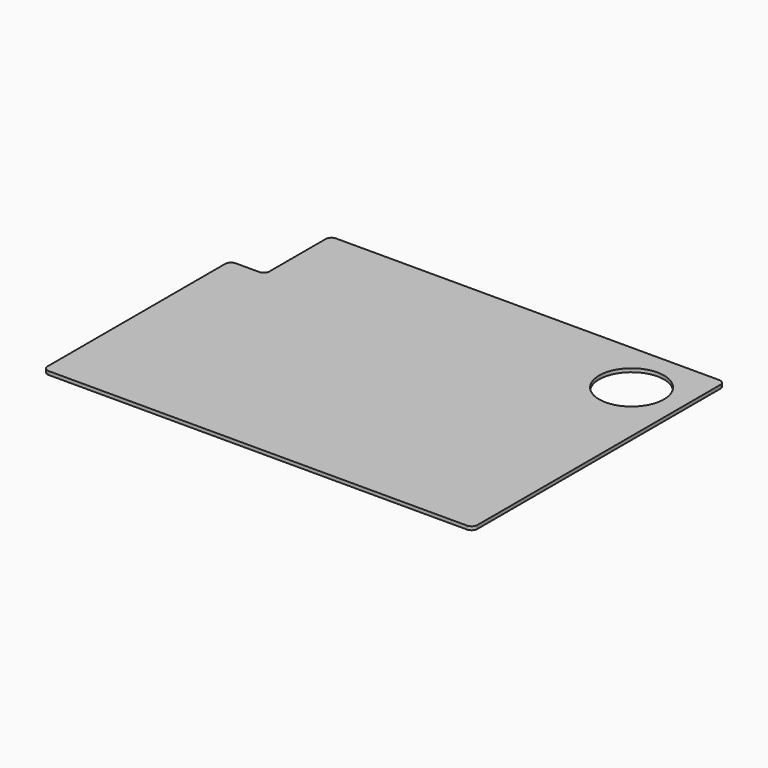
from build123d import *

# Parameters (mm, degrees)
PAD012_DEPTH             = 3
SKETCH090_R              = 27.75
POCKET039_DEPTH          = 0.001
POCKET039_DEPTH_BACK     = 3.001
POCKET040_DEPTH          = 0.001
POCKET040_DEPTH_BACK     = 3.001
BODY081_PLACEMENT_ANGLE  = 90
CLONE028_ROLL_ANGLE      = 180
CLONE028_PLACEMENT_ANGLE = -90


with BuildPart() as part:
    # Sketch089 → Pad012 (new body)
    with BuildSketch(Plane.XY):
        with BuildLine():
            ThreePointArc((-184, -130), (-182.535534, -133.535534), (-179, -135))
            Line((179, -135), (-179, -135))
            ThreePointArc((179, -135), (182.535534, -133.535534), (184, -130))
            Line((184, 130), (184, -130))
            ThreePointArc((184, 130), (182.535534, 133.535534), (179, 135))
            Line((-179, 135), (179, 135))
            ThreePointArc((-179, 135), (-182.535534, 133.535534), (-184, 130))
            Line((-184, -130), (-184, 130))
        make_face()
    extrude(amount=PAD012_DEPTH)

    # Sketch090 → Pocket039 (cut, two sides)
    with BuildSketch(Plane(origin=(-140, 90, 0), x_dir=(1, 0, 0), z_dir=(0, 0, 1))) as pocket039_sk:
        Circle(SKETCH090_R)
    extrude(amount=-POCKET039_DEPTH, mode=Mode.SUBTRACT)
    extrude(pocket039_sk.sketch, amount=POCKET039_DEPTH_BACK, mode=Mode.SUBTRACT)

    # Sketch091 → Pocket040 (cut, two sides)
    with BuildSketch(Plane.XY) as pocket040_sk:
        with BuildLine():
            Line((184, 135), (149, 135))
            ThreePointArc((154, 130), (152.535534, 133.535534), (149, 135))
            Line((154, 130), (154, 70))
            ThreePointArc((154, 70), (155.464466, 66.464466), (159, 65))
            Line((159, 65), (179, 65))
            ThreePointArc((184, 60), (182.535534, 63.535534), (179, 65))
            Line((184, 60), (184, 135))
        make_face()
    extrude(amount=-POCKET040_DEPTH, mode=Mode.SUBTRACT)
    extrude(pocket040_sk.sketch, amount=POCKET040_DEPTH_BACK, mode=Mode.SUBTRACT)


with BuildPart() as part_1:
    # Body081 placement: moved
    add(part.part.rotate(Axis((0, 0, 0), (0, 0, 1)), BODY081_PLACEMENT_ANGLE))


with BuildPart() as part_2:
    # Clone028 roll: moved
    add(part_1.part.rotate(Axis((0, 0, 0), (1, 0, 0)), CLONE028_ROLL_ANGLE))


with BuildPart() as part_3:
    # Clone028 placement: moved
    add(part_2.part.moved(Location((-184, 135, 0))).rotate(Axis((-184, 135, 0), (0, 0, 1)), CLONE028_PLACEMENT_ANGLE))


solid = part_3.part
